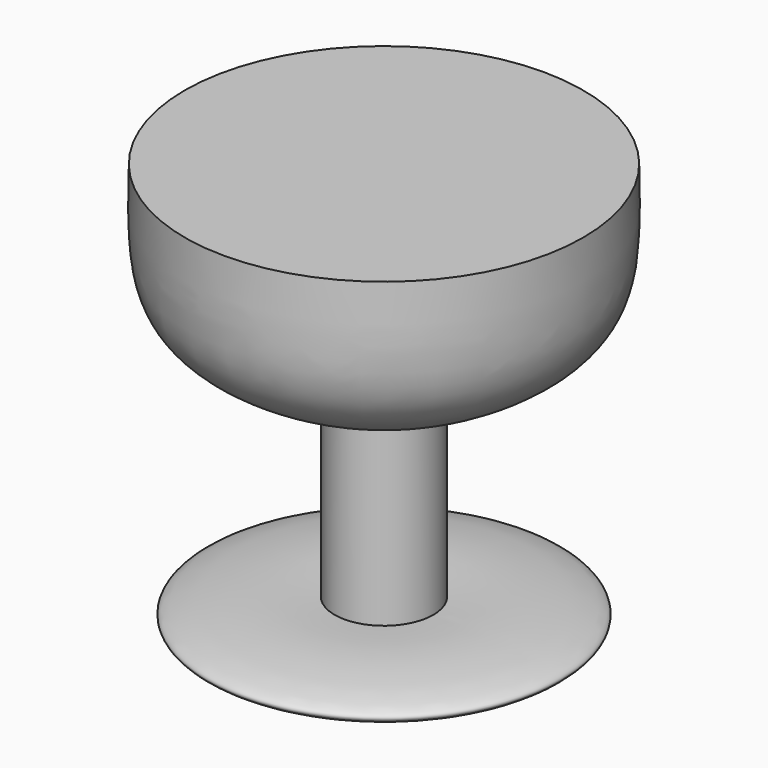
from build123d import *


with BuildPart() as f1:
    # F0 (on Front) → F1 (revolve)
    with BuildSketch(Plane.XZ):
        with BuildLine():
            Line((58.02455917, 52.6557005942), (0, 52.6557005942))
            Line((0, 52.6557005942), (0, -70.1912641525))
            add(Edge.make_bspline(
                [(14.3637172878, -58.2591108978), (20.641721982, -57.8762425572), (32.6385113373, -57.1446102861), (59.4711104494, -62.1716692327), (33.5252714276, -70.0893230393), (12.6866503155, -70.1526875444), (0, -70.1912641525)],
                knots=[0, 0, 0, 0, 0.2428439002, 0.4640562182, 0.6737149108, 1, 1, 1, 1], degree=3))
            Line((14.3637172878, -58.2591108978), (14.3637172878, -6.4627067186))
            add(Edge.make_bspline(
                [(58.02455917, 52.6557005942), (58.1586873411, 47.041691584), (58.4410408816, 35.2236275143), (55.8134183916, 10.5456428071), (29.7200781364, -0.1614223715), (14.3637172878, -6.4627067186)],
                knots=[0, 0, 0, 0, 0.2713222515, 0.5711611339, 1, 1, 1, 1], degree=3))
        make_face()
    revolve(axis=Axis((0, 0, -8.7677817792), (0, 0, -1)))


solid = f1.part
